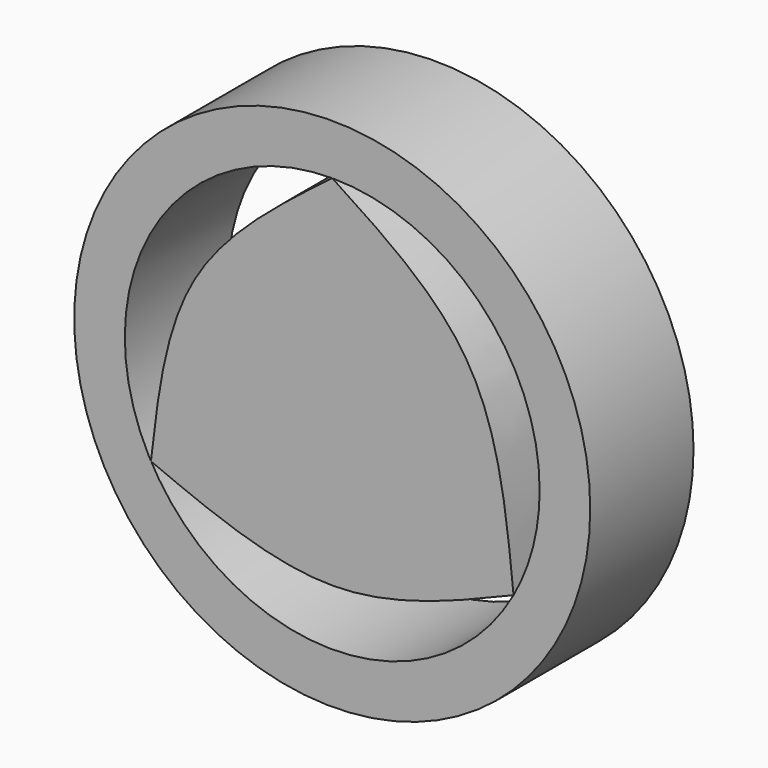
from build123d import *

# Parameters (mm, degrees)
F0_R     = 12.6909451001
F1_DEPTH = 6.35


with BuildPart() as f1:
    # F0 (on Front) → F1 (new body)
    with BuildSketch(Plane.XZ):
        Circle(F0_R)
        with BuildLine():
            ThreePointArc((0, 10.202302307), (7.214117145, 7.214117145), (10.202302307, 0))
            ThreePointArc((10.202302307, 0), (9.8760327191, -2.5594823884), (8.9180921554, -4.9552603031))
            ThreePointArc((8.9180921554, -4.9552603031), (0, -10.202302307), (-8.9180921554, -4.9552603031))
            ThreePointArc((-8.9180921554, -4.9552603031), (-8.79323706, 5.1735823537), (0, 10.202302307))
        make_face(mode=Mode.SUBTRACT)
    extrude(amount=F1_DEPTH)


with BuildPart() as f1b:
    # F0 (on Front) → F1, piece 2 (new body)
    with BuildSketch(Plane.XZ):
        Polygon((8.9180921554, -4.9552603031), (0, 10.202302307), (-8.9180921554, -4.9552603031), align=None)
        with BuildLine():
            add(Edge.make_bspline(
                [(0, 10.202302307), (2.6000968364, 8.5114801067), (7.9012546942, 5.0641795031), (8.5748698476, -1.5733085313), (8.9180921554, -4.9552603031)],
                knots=[0, 0, 0, 0, 0.4904771573, 1, 1, 1, 1], degree=3))
            Line((0, 10.202302307), (8.9180921554, -4.9552603031))
        make_face()
        with BuildLine():
            add(Edge.make_bspline(
                [(8.9180921554, -4.9552603031), (5.9453947703, -6.1955669598), (0, -8.6761802732), (-5.9453947703, -6.1955669598), (-8.9180921554, -4.9552603031)],
                knots=[0, 0, 0, 0, 0.5, 1, 1, 1, 1], degree=3))
            Line((8.9180921554, -4.9552603031), (-8.9180921554, -4.9552603031))
        make_face()
        with BuildLine():
            Line((-8.9180921554, -4.9552603031), (0, 10.202302307))
            add(Edge.make_bspline(
                [(-8.9180921554, -4.9552603031), (-8.5717202474, -1.9384966543), (-7.8652036534, 4.2149861439), (-2.6555865042, 8.1807607552), (0, 10.202302307)],
                knots=[0, 0, 0, 0, 0.4902530401, 1, 1, 1, 1], degree=3))
        make_face()
    extrude(amount=F1_DEPTH)


solid = Compound([f1.part, f1b.part])
